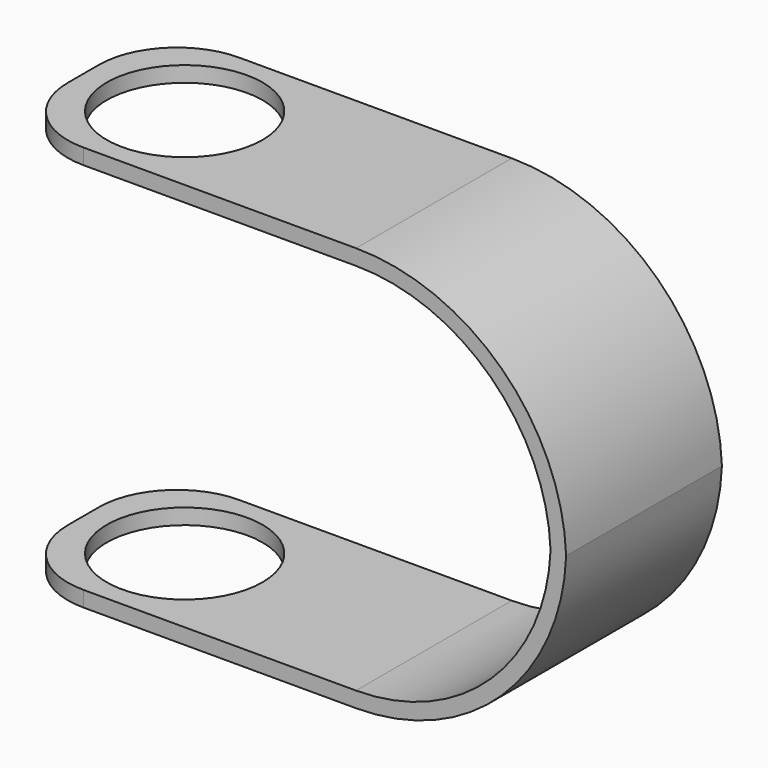
from build123d import *

# Parameters (mm, degrees)
F1_DEPTH = 25
F2_R     = 10
F3_DEPTH = 1.9995178848
F5_R     = 10


with BuildPart() as f1:
    # F0 (on Front) → F1 (new body)
    with BuildSketch(Plane.XZ):
        with BuildLine():
            Line((-45, 25.9985178848), (-45, 24))
            Line((-45, 24), (0, 24))
            ThreePointArc((0, 24), (17.3205080757, 17.0277563773), (24.9799919936, 0))
            Line((24.9799919936, 0), (26.9799919936, 0))
            ThreePointArc((26.9799919936, 0), (18.7339457949, 18.4411739082), (0, 25.9985178848))
            Line((0, 25.9985178848), (-45, 25.9985178848))
        make_face()
    extrude(amount=F1_DEPTH)

    # F2 (on face) → F3 (cut, through all)
    with BuildSketch(Plane(origin=(0, 0, 24), x_dir=(1, 0, 0), z_dir=(0, 0, -1))):
        with Locations((-32, 12.5)):
            Circle(F2_R)
    extrude(amount=-F3_DEPTH, mode=Mode.SUBTRACT)

    # F4: F1 across plane


with BuildPart() as f1_1:
    add(f1.part)
    add(f1.part.mirror(Plane.XY))

    # F5
    f5_edges = [f1_1.edges().sort_by_distance(p)[0] for p in [
        (-45, -25, 24.999259),
        (-45, -25, -24.999259),
        (-45, 0, -24.999259),
        (-45, 0, 24.999259),
    ]]
    fillet(f5_edges, radius=F5_R)


solid = f1_1.part
